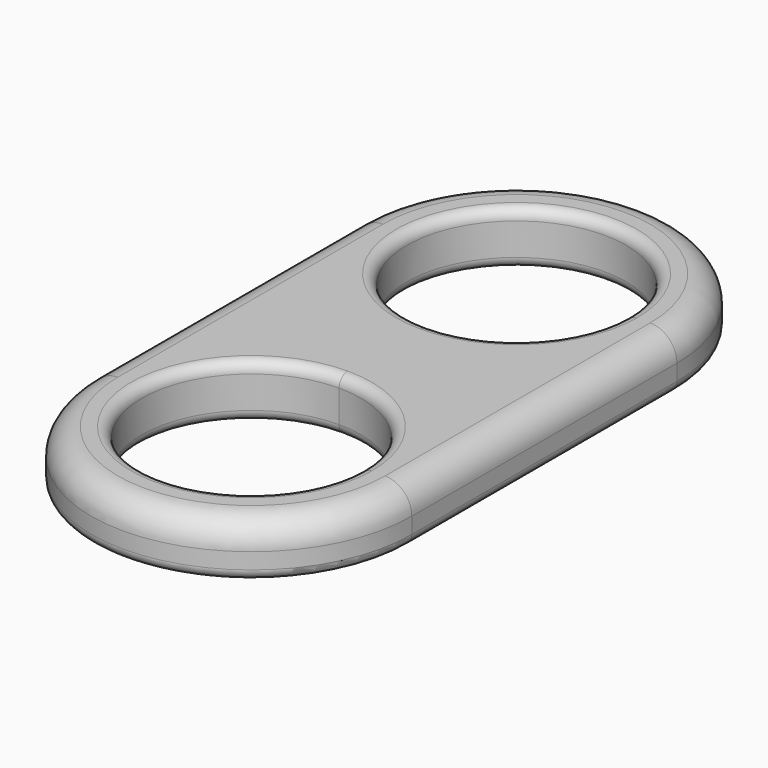
from build123d import *

# Parameters (mm, degrees)
F1_DEPTH = 10
F2_R     = 2
F3_R     = 5


with BuildPart() as f1:
    # F0 (on Top) → F1 (new body)
    with BuildSketch(Plane.XY):
        with BuildLine():
            ThreePointArc((30, 31), (0, 61), (-30, 31))
            Line((-30, 31), (-30, -31))
            ThreePointArc((-30, -31), (0, -61), (30, -31))
            Line((30, -31), (30, 31))
        make_face()
        with BuildLine():
            ThreePointArc((20.5, -31), (-14.4956890143, -45.4956890143), (0, -10.5))
            ThreePointArc((0, -10.5), (14.4956890143, -16.5043109857), (20.5, -31))
        make_face(mode=Mode.SUBTRACT)
        with BuildLine():
            ThreePointArc((20.5, 31), (14.4956890143, 16.5043109857), (0, 10.5))
            ThreePointArc((0, 10.5), (-14.4956890143, 45.4956890143), (20.5, 31))
        make_face(mode=Mode.SUBTRACT)
    extrude(amount=F1_DEPTH)

    # F2
    f2_edges = [f1.edges().sort_by_distance(p)[0] for p in [
        (-20.5, 31, 10),
        (-20.5, 31, 0),
        (0, -51.5, 10),
        (0, -51.5, 0),
        (30, 0, 0),
    ]]
    fillet(f2_edges, radius=F2_R)

    # F3
    f3_edges = [f1.edges().sort_by_distance(p)[0] for p in [
        (-30, 0, 10),
    ]]
    fillet(f3_edges, radius=F3_R)


solid = f1.part
